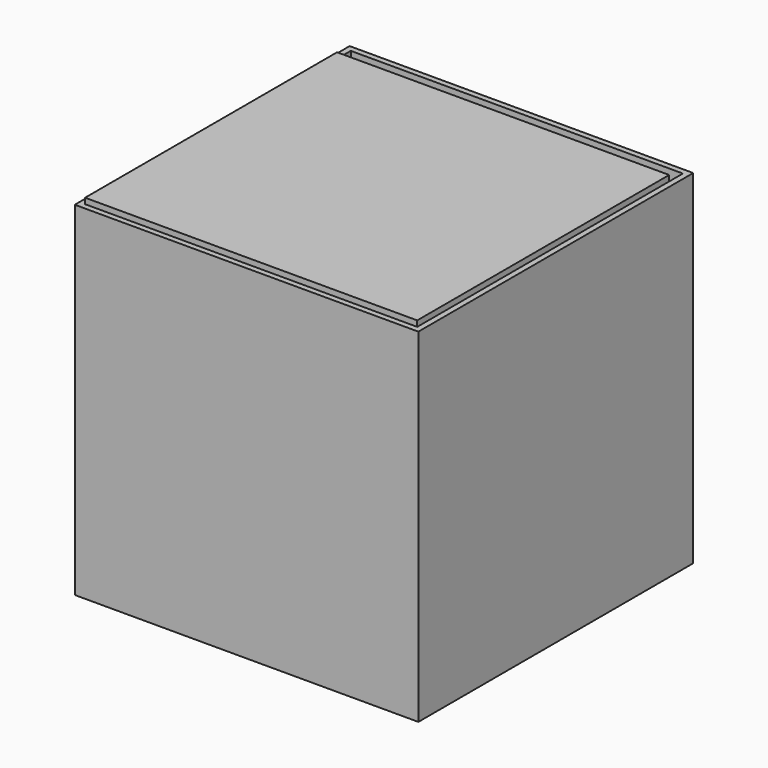
from build123d import *

# Parameters (mm, degrees)
F0_W     = 304.8
F0_H     = 304.8
F1_DEPTH = 152.4
F2_T     = -5.08
F3_W     = 294.64
F3_H     = 5.08
F4_DEPTH = 279.4


with BuildPart() as f1:
    # F0 (on Top) → F1 (new body, symmetric)
    with BuildSketch(Plane.XY):
        Rectangle(F0_W, F0_H)
    extrude(amount=F1_DEPTH, both=True)

    # F2
    f2_openings = [f1.faces().sort_by_distance(p)[0] for p in [
        (0, 0, 152.4),
    ]]
    offset(amount=F2_T, openings=f2_openings)


with BuildPart() as f4:
    # F3 (on face) → F4 (new body)
    with BuildSketch(Plane(origin=(0, -147.32, 0), x_dir=(-1, 0, 0), z_dir=(0, 1, 0))):
        with Locations((0, 154.94)):
            Rectangle(F3_W, F3_H)
    extrude(amount=F4_DEPTH)


solid = Compound([f1.part, f4.part])
